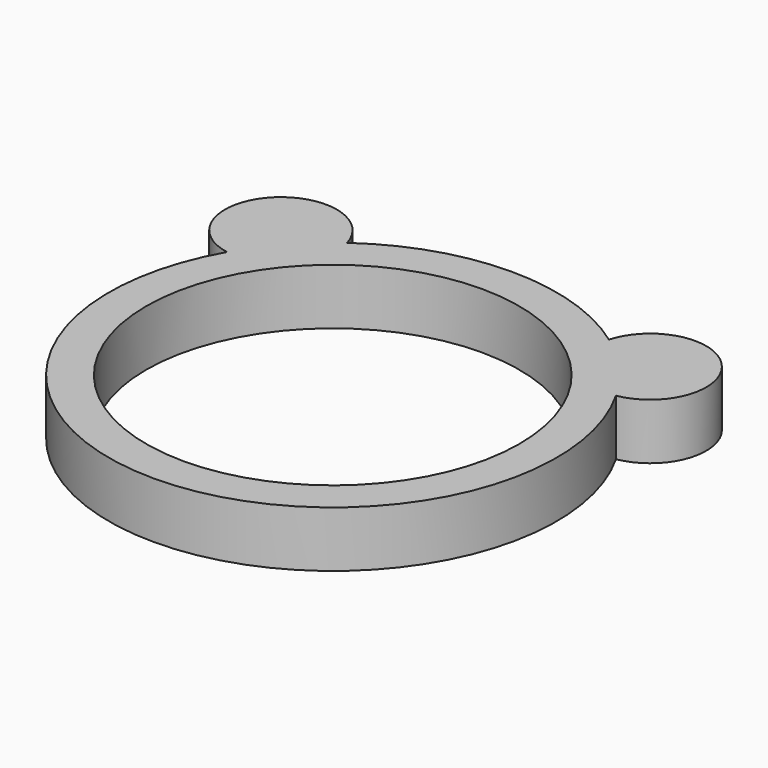
from build123d import *

# Parameters (mm, degrees)
CYLINDER002_R               = 10
CYLINDER002_DEPTH           = 10
CYLINDER001_R               = 3
CYLINDER001_DEPTH           = 3
CYLINDER001_PLACEMENT_ANGLE = 45
CYLINDER_R                  = 12
CYLINDER_DEPTH              = 3


with BuildPart() as hole:
    # Cylinder002 → Cylinder002 (new body)
    with BuildSketch(Plane.XY.offset(-4)):
        Circle(CYLINDER002_R)
    extrude(amount=CYLINDER002_DEPTH)


with BuildPart() as left_ear:
    # Cylinder001 → Cylinder001 (new body)
    with BuildSketch(Plane.XY):
        Circle(CYLINDER001_R)
    extrude(amount=CYLINDER001_DEPTH)


with BuildPart() as left_ear_1:
    # Cylinder001 placement: moved
    add(left_ear.part.moved(Location((-9.899495, 8.899495, 0))).rotate(Axis((-9.899495, 8.899495, 0), (0, 0, 1)), CYLINDER001_PLACEMENT_ANGLE))


with BuildPart() as right_ear:
    # Part__Mirroring: instance of left-ear
    add(left_ear_1.part.mirror(Plane(origin=(0, 0, 0), x_dir=(0, -1, 0), z_dir=(1, 0, 0))))


with BuildPart() as base_cylinder:
    # Cylinder → Cylinder (new body)
    with BuildSketch(Plane.XY):
        Circle(CYLINDER_R)
    extrude(amount=CYLINDER_DEPTH)


with BuildPart() as ring_with_ears:
    # Fusion base: copy of left-ear
    add(left_ear_1.part)

    # Fusion: union right-ear, base-cylinder
    add(right_ear.part)
    add(base_cylinder.part)

    # Cut: cut hole
    add(hole.part, mode=Mode.SUBTRACT)


solid = ring_with_ears.part
